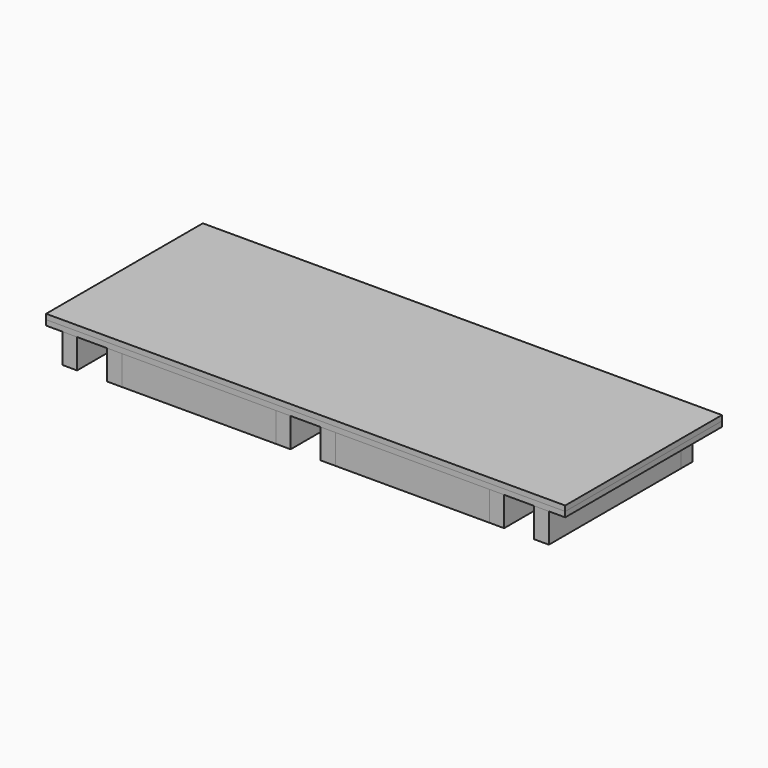
from build123d import *

# Parameters (mm, degrees)
F0_W      = 1590
F0_H      = 600
F1_DEPTH  = 16
F2_W      = 1590
F2_H      = 600
F3_DEPTH  = 16
F4_W      = 45
F4_H      = 505
F5_DEPTH  = 90
F6_W      = 1490
F6_H      = 45
F7_DEPTH  = 90
F6_W_2    = 472
F8_W      = 45
F8_H      = 460
F9_DEPTH  = 90
F11_D     = 6
F11_DEPTH = 12
F11_TIP   = 1.8025818571


with BuildPart() as f1:
    # F0 (on Top) → F1 (new body)
    with BuildSketch(Plane.XY):
        Rectangle(F0_W, F0_H)
    extrude(amount=F1_DEPTH)

    # F11
    with Locations(Plane(origin=(0, 0, 0), x_dir=(1, 0, 0), z_dir=(0, 0, -1))):
        with Locations((-688.5, 277), (-654, 277), (-619.5, 277), (-688.5, -137), (-654, -137), (-619.5, -137), (-34.5, -137), (0, -137), (34.5, -137), (-34.5, 277), (0, 277), (34.5, 277), (619.5, 277), (654, 277), (688.5, 277), (619.5, -137), (654, -137), (688.5, -137)):
            Hole(F11_D / 2, depth=F11_DEPTH)
            with Locations((0, 0, -(F11_DEPTH + F11_TIP / 2))):  # 118° drill point
                Cone(0, F11_D / 2, F11_TIP, mode=Mode.SUBTRACT)


with BuildPart() as f3:
    # F2 (on face) → F3 (new body)
    with BuildSketch(Plane.XY.offset(16)):
        Rectangle(F2_W, F2_H)
    extrude(amount=F3_DEPTH)


with BuildPart() as f5:
    # F4 (on face) → F5 (new body)
    with BuildSketch(Plane(origin=(0, 0, 0), x_dir=(1, 0, 0), z_dir=(0, 0, -1))):
        with Locations((-722.5, 47.5)):
            Rectangle(F4_W, F4_H)
    extrude(amount=F5_DEPTH)


with BuildPart() as f5b:
    # F4 (on face) → F5, piece 2 (new body)
    with BuildSketch(Plane(origin=(0, 0, 0), x_dir=(1, 0, 0), z_dir=(0, 0, -1))):
        with Locations((-585.5, 47.5)):
            Rectangle(F4_W, F4_H)
    extrude(amount=F5_DEPTH)


with BuildPart() as f5c:
    # F4 (on face) → F5, piece 3 (new body)
    with BuildSketch(Plane(origin=(0, 0, 0), x_dir=(1, 0, 0), z_dir=(0, 0, -1))):
        with Locations((-68.5, 47.5)):
            Rectangle(F4_W, F4_H)
    extrude(amount=F5_DEPTH)


with BuildPart() as f5d:
    # F4 (on face) → F5, piece 4 (new body)
    with BuildSketch(Plane(origin=(0, 0, 0), x_dir=(1, 0, 0), z_dir=(0, 0, -1))):
        with Locations((68.5, 47.5)):
            Rectangle(F4_W, F4_H)
    extrude(amount=F5_DEPTH)


with BuildPart() as f5e:
    # F4 (on face) → F5, piece 5 (new body)
    with BuildSketch(Plane(origin=(0, 0, 0), x_dir=(1, 0, 0), z_dir=(0, 0, -1))):
        with Locations((585.5, 47.5)):
            Rectangle(F4_W, F4_H)
    extrude(amount=F5_DEPTH)


with BuildPart() as f5f:
    # F4 (on face) → F5, piece 6 (new body)
    with BuildSketch(Plane(origin=(0, 0, 0), x_dir=(1, 0, 0), z_dir=(0, 0, -1))):
        with Locations((722.5, 47.5)):
            Rectangle(F4_W, F4_H)
    extrude(amount=F5_DEPTH)


with BuildPart() as f7:
    # F6 (on face) → F7 (new body, through all)
    with BuildSketch(Plane(origin=(0, 0, 0), x_dir=(1, 0, 0), z_dir=(0, 0, -1))):
        with Locations((0, -227.5)):
            Rectangle(F6_W, F6_H)
    extrude(amount=F7_DEPTH)


with BuildPart() as f7b:
    # F6 (on face) → F7, piece 2 (new body, through all)
    with BuildSketch(Plane(origin=(0, 0, 0), x_dir=(1, 0, 0), z_dir=(0, 0, -1))):
        with Locations((-327, 277.5)):
            Rectangle(F6_W_2, F6_H)
    extrude(amount=F7_DEPTH)


with BuildPart() as f7c:
    # F6 (on face) → F7, piece 3 (new body, through all)
    with BuildSketch(Plane(origin=(0, 0, 0), x_dir=(1, 0, 0), z_dir=(0, 0, -1))):
        with Locations((327, 277.5)):
            Rectangle(F6_W_2, F6_H)
    extrude(amount=F7_DEPTH)


with BuildPart() as f9:
    # F8 (on face) → F9 (new body, through all)
    with BuildSketch(Plane(origin=(0, 0, 0), x_dir=(1, 0, 0), z_dir=(0, 0, -1))):
        with Locations((-327, 25)):
            Rectangle(F8_W, F8_H)
    extrude(amount=F9_DEPTH)


with BuildPart() as f9b:
    # F8 (on face) → F9, piece 2 (new body, through all)
    with BuildSketch(Plane(origin=(0, 0, 0), x_dir=(1, 0, 0), z_dir=(0, 0, -1))):
        with Locations((327, 25)):
            Rectangle(F8_W, F8_H)
    extrude(amount=F9_DEPTH)


solid = Compound([f1.part, f3.part, f5.part, f5b.part, f5c.part, f5d.part, f5e.part, f5f.part, f7.part, f7b.part, f7c.part, f9.part, f9b.part])
